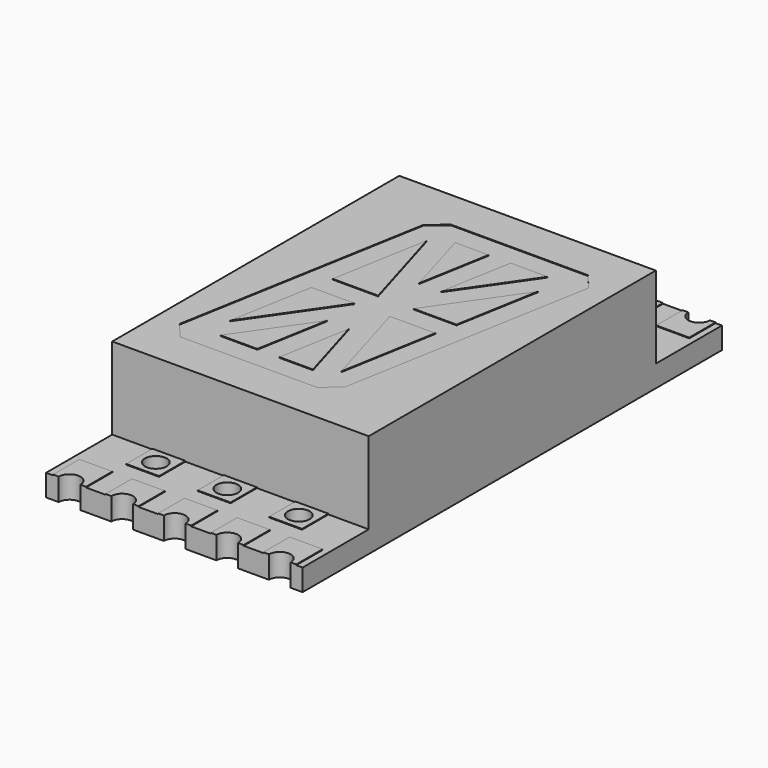
from build123d import *

# Parameters (mm, degrees)
F0_W     = 9.2964
F0_H     = 18.9992
F1_DEPTH = 0.7874
F2_W     = 9.2964
F2_H     = 13.0048
F3_DEPTH = 2.9718
F4_R     = 0.3937
F5_DEPTH = 25.4
F4_W     = 1.1938
F4_H     = 1.1938
F6_DEPTH = 0.0254
F8_DEPTH = 0.0254


with BuildPart() as f1:
    # F0 (on Top) → F1 (new body)
    with BuildSketch(Plane.XY):
        Rectangle(F0_W, F0_H)
    extrude(amount=F1_DEPTH)

    # F2 (on face) → F3 (join)
    with BuildSketch(Plane.XY.offset(0.7874)):
        Rectangle(F2_W, F2_H)
    extrude(amount=F3_DEPTH)

    # F4 (on face) → F5 (cut)
    with BuildSketch(Plane.XY.offset(0.7874)):
        with BuildLine():
            ThreePointArc((-3.4036, -9.4996), (-3.7973, -9.1059), (-4.191, -9.4996))
            Line((-4.191, -9.4996), (-3.4036, -9.4996))
        make_face()
        with BuildLine():
            ThreePointArc((-1.4986, -9.4996), (-1.8923, -9.1059), (-2.286, -9.4996))
            Line((-2.286, -9.4996), (-1.4986, -9.4996))
        make_face()
        with BuildLine():
            ThreePointArc((0.4064, -9.4996), (0.0127, -9.1059), (-0.381, -9.4996))
            Line((-0.381, -9.4996), (0.4064, -9.4996))
        make_face()
        with BuildLine():
            ThreePointArc((2.3114, -9.4996), (1.9177, -9.1059), (1.524, -9.4996))
            Line((1.524, -9.4996), (2.3114, -9.4996))
        make_face()
        with BuildLine():
            Line((3.429, -9.4996), (4.2164, -9.4996))
            ThreePointArc((4.2164, -9.4996), (3.8227, -9.1059), (3.429, -9.4996))
        make_face()
        with Locations((2.5908, -7.0993)):
            Circle(F4_R)
        with Locations((0, -7.0993)):
            Circle(F4_R)
        with Locations((-2.5908, -7.0993)):
            Circle(F4_R)
        with BuildLine():
            ThreePointArc((-2.3124120602, 7.3776879398), (-2.8691879398, 7.3776879398), (-2.8691879398, 6.8209120602))
            Line((-2.8691879398, 6.8209120602), (-2.3124120602, 7.3776879398))
        make_face()
        with BuildLine():
            Line((-2.3124120602, 7.3776879398), (-2.8691879398, 6.8209120602))
            ThreePointArc((-2.8691879398, 6.8209120602), (-2.4401375327, 6.7355686281), (-2.1971, 7.0993))
            ThreePointArc((-2.1971, 7.0993), (-2.2270686281, 7.2499624673), (-2.3124120602, 7.3776879398))
        make_face()
        with BuildLine():
            ThreePointArc((0.2783879398, 7.3776879398), (-0.2783879398, 7.3776879398), (-0.2783879398, 6.8209120602))
            Line((-0.2783879398, 6.8209120602), (0.2783879398, 7.3776879398))
        make_face()
        with BuildLine():
            Line((0.2783879398, 7.3776879398), (-0.2783879398, 6.8209120602))
            ThreePointArc((-0.2783879398, 6.8209120602), (0.1506624673, 6.7355686281), (0.3937, 7.0993))
            ThreePointArc((0.3937, 7.0993), (0.3637313719, 7.2499624673), (0.2783879398, 7.3776879398))
        make_face()
        with BuildLine():
            ThreePointArc((2.8691879398, 7.3776879398), (2.3124120602, 7.3776879398), (2.3124120602, 6.8209120602))
            Line((2.3124120602, 6.8209120602), (2.8691879398, 7.3776879398))
        make_face()
        with BuildLine():
            Line((2.8691879398, 7.3776879398), (2.3124120602, 6.8209120602))
            ThreePointArc((2.3124120602, 6.8209120602), (2.7414624673, 6.7355686281), (2.9845, 7.0993))
            ThreePointArc((2.9845, 7.0993), (2.9545313719, 7.2499624673), (2.8691879398, 7.3776879398))
        make_face()
        with BuildLine():
            ThreePointArc((-4.191, 9.4996), (-3.7973, 9.1059), (-3.4036, 9.4996))
            Line((-3.4036, 9.4996), (-4.191, 9.4996))
        make_face()
        with BuildLine():
            ThreePointArc((-2.286, 9.4996), (-1.8923, 9.1059), (-1.4986, 9.4996))
            Line((-1.4986, 9.4996), (-2.286, 9.4996))
        make_face()
        with BuildLine():
            Line((0.4064, 9.4996), (-0.381, 9.4996))
            ThreePointArc((-0.381, 9.4996), (0.0127, 9.1059), (0.4064, 9.4996))
        make_face()
        with BuildLine():
            Line((2.3114, 9.4996), (1.524, 9.4996))
            ThreePointArc((1.524, 9.4996), (1.9177, 9.1059), (2.3114, 9.4996))
        make_face()
        with BuildLine():
            Line((4.2164, 9.4996), (3.429, 9.4996))
            ThreePointArc((3.429, 9.4996), (3.8227, 9.1059), (4.2164, 9.4996))
        make_face()
    extrude(amount=-F5_DEPTH, mode=Mode.SUBTRACT)

    # F4 (on face) → F6 (join)
    with BuildSketch(Plane.XY.offset(0.7874)):
        with BuildLine():
            Line((-4.3942, 8.3058), (-3.2004, 8.3058))
            Line((-3.2004, 8.3058), (-3.2004, 9.4996))
            Line((-3.2004, 9.4996), (-3.4036, 9.4996))
            ThreePointArc((-3.4036, 9.4996), (-3.7973, 9.1059), (-4.191, 9.4996))
            Line((-4.191, 9.4996), (-4.3942, 9.4996))
            Line((-4.3942, 9.4996), (-4.3942, 8.3058))
        make_face()
        with BuildLine():
            Line((-1.2954, 9.4996), (-1.4986, 9.4996))
            ThreePointArc((-1.4986, 9.4996), (-1.8923, 9.1059), (-2.286, 9.4996))
            Line((-2.286, 9.4996), (-2.4892, 9.4996))
            Line((-2.4892, 9.4996), (-2.4892, 8.3058))
            Line((-2.4892, 8.3058), (-1.2954, 8.3058))
            Line((-1.2954, 8.3058), (-1.2954, 9.4996))
        make_face()
        with BuildLine():
            Line((-0.381, 9.4996), (-0.5842, 9.4996))
            Line((-0.5842, 9.4996), (-0.5842, 8.3058))
            Line((-0.5842, 8.3058), (0.6096, 8.3058))
            Line((0.6096, 8.3058), (0.6096, 9.4996))
            Line((0.6096, 9.4996), (0.4064, 9.4996))
            ThreePointArc((0.4064, 9.4996), (0.0127, 9.1059), (-0.381, 9.4996))
        make_face()
        with BuildLine():
            Line((1.524, 9.4996), (1.3208, 9.4996))
            Line((1.3208, 9.4996), (1.3208, 8.3058))
            Line((1.3208, 8.3058), (2.5146, 8.3058))
            Line((2.5146, 8.3058), (2.5146, 9.4996))
            Line((2.5146, 9.4996), (2.3114, 9.4996))
            ThreePointArc((2.3114, 9.4996), (1.9177, 9.1059), (1.524, 9.4996))
        make_face()
        with BuildLine():
            Line((3.429, 9.4996), (3.2258, 9.4996))
            Line((3.2258, 9.4996), (3.2258, 8.3058))
            Line((3.2258, 8.3058), (4.4196, 8.3058))
            Line((4.4196, 8.3058), (4.4196, 9.4996))
            Line((4.4196, 9.4996), (4.2164, 9.4996))
            ThreePointArc((4.2164, 9.4996), (3.8227, 9.1059), (3.429, 9.4996))
        make_face()
        with BuildLine():
            Line((-2.4892, -8.3058), (-2.4892, -9.4996))
            Line((-2.4892, -9.4996), (-2.286, -9.4996))
            ThreePointArc((-2.286, -9.4996), (-1.8923, -9.1059), (-1.4986, -9.4996))
            Line((-1.4986, -9.4996), (-1.2954, -9.4996))
            Line((-1.2954, -9.4996), (-1.2954, -8.3058))
            Line((-1.2954, -8.3058), (-2.4892, -8.3058))
        make_face()
        with BuildLine():
            Line((-4.3942, -8.3058), (-4.3942, -9.4996))
            Line((-4.3942, -9.4996), (-4.191, -9.4996))
            ThreePointArc((-4.191, -9.4996), (-3.7973, -9.1059), (-3.4036, -9.4996))
            Line((-3.4036, -9.4996), (-3.2004, -9.4996))
            Line((-3.2004, -9.4996), (-3.2004, -8.3058))
            Line((-3.2004, -8.3058), (-4.3942, -8.3058))
        make_face()
        with BuildLine():
            Line((-0.5842, -8.3058), (-0.5842, -9.4996))
            Line((-0.5842, -9.4996), (-0.381, -9.4996))
            ThreePointArc((-0.381, -9.4996), (0.0127, -9.1059), (0.4064, -9.4996))
            Line((0.4064, -9.4996), (0.6096, -9.4996))
            Line((0.6096, -9.4996), (0.6096, -8.3058))
            Line((0.6096, -8.3058), (-0.5842, -8.3058))
        make_face()
        with BuildLine():
            Line((1.3208, -8.3058), (1.3208, -9.4996))
            Line((1.3208, -9.4996), (1.524, -9.4996))
            ThreePointArc((1.524, -9.4996), (1.9177, -9.1059), (2.3114, -9.4996))
            Line((2.3114, -9.4996), (2.5146, -9.4996))
            Line((2.5146, -9.4996), (2.5146, -8.3058))
            Line((2.5146, -8.3058), (1.3208, -8.3058))
        make_face()
        with BuildLine():
            Line((4.2164, -9.4996), (4.4196, -9.4996))
            Line((4.4196, -9.4996), (4.4196, -8.3058))
            Line((4.4196, -8.3058), (3.2258, -8.3058))
            Line((3.2258, -8.3058), (3.2258, -9.4996))
            Line((3.2258, -9.4996), (3.429, -9.4996))
            ThreePointArc((3.429, -9.4996), (3.8227, -9.1059), (4.2164, -9.4996))
        make_face()
        with Locations((2.5908, -7.0993)):
            Rectangle(F4_W, F4_H)
        with Locations((2.5908, -7.0993)):
            Circle(F4_R, mode=Mode.SUBTRACT)
        with Locations((0, -7.0993)):
            Rectangle(F4_W, F4_H)
        with Locations((0, -7.0993)):
            Circle(F4_R, mode=Mode.SUBTRACT)
        with Locations((-2.5908, -7.0993)):
            Rectangle(F4_W, F4_H)
        with Locations((-2.5908, -7.0993)):
            Circle(F4_R, mode=Mode.SUBTRACT)
        with BuildLine():
            Line((-2.8691879398, 6.8209120602), (-3.1877, 6.5024))
            Line((-3.1877, 6.5024), (-1.9939, 6.5024))
            Line((-1.9939, 6.5024), (-1.9939, 7.6962))
            Line((-1.9939, 7.6962), (-2.3124120602, 7.3776879398))
            ThreePointArc((-2.3124120602, 7.3776879398), (-2.2270686281, 7.2499624673), (-2.1971, 7.0993))
            ThreePointArc((-2.1971, 7.0993), (-2.4401375327, 6.7355686281), (-2.8691879398, 6.8209120602))
        make_face()
        with BuildLine():
            Line((0.5969, 7.6962), (-0.5969, 7.6962))
            Line((-0.5969, 7.6962), (-0.5969, 6.5024))
            Line((-0.5969, 6.5024), (-0.2783879398, 6.8209120602))
            ThreePointArc((-0.2783879398, 6.8209120602), (-0.2783879398, 7.3776879398), (0.2783879398, 7.3776879398))
            Line((0.2783879398, 7.3776879398), (0.5969, 7.6962))
        make_face()
        with BuildLine():
            Line((-0.2783879398, 6.8209120602), (-0.5969, 6.5024))
            Line((-0.5969, 6.5024), (0.5969, 6.5024))
            Line((0.5969, 6.5024), (0.5969, 7.6962))
            Line((0.5969, 7.6962), (0.2783879398, 7.3776879398))
            ThreePointArc((0.2783879398, 7.3776879398), (0.3637313719, 7.2499624673), (0.3937, 7.0993))
            ThreePointArc((0.3937, 7.0993), (0.1506624673, 6.7355686281), (-0.2783879398, 6.8209120602))
        make_face()
        with BuildLine():
            Line((2.3124120602, 6.8209120602), (1.9939, 6.5024))
            Line((1.9939, 6.5024), (3.1877, 6.5024))
            Line((3.1877, 6.5024), (3.1877, 7.6962))
            Line((3.1877, 7.6962), (2.8691879398, 7.3776879398))
            ThreePointArc((2.8691879398, 7.3776879398), (2.9545313719, 7.2499624673), (2.9845, 7.0993))
            ThreePointArc((2.9845, 7.0993), (2.7414624673, 6.7355686281), (2.3124120602, 6.8209120602))
        make_face()
        with BuildLine():
            Line((-3.1877, 7.6962), (-3.1877, 6.5024))
            Line((-3.1877, 6.5024), (-2.8691879398, 6.8209120602))
            ThreePointArc((-2.8691879398, 6.8209120602), (-2.8691879398, 7.3776879398), (-2.3124120602, 7.3776879398))
            Line((-2.3124120602, 7.3776879398), (-1.9939, 7.6962))
            Line((-1.9939, 7.6962), (-3.1877, 7.6962))
        make_face()
        with BuildLine():
            Line((1.9939, 7.6962), (1.9939, 6.5024))
            Line((1.9939, 6.5024), (2.3124120602, 6.8209120602))
            ThreePointArc((2.3124120602, 6.8209120602), (2.3124120602, 7.3776879398), (2.8691879398, 7.3776879398))
            Line((2.8691879398, 7.3776879398), (3.1877, 7.6962))
            Line((3.1877, 7.6962), (1.9939, 7.6962))
        make_face()
    extrude(amount=F6_DEPTH)

    # F7 (on face) → F8 (cut)
    with BuildSketch(Plane.XY.offset(3.7592)):
        Polygon((-1.6337567293, 5.08), (-2.2369401238, 4.5738690361), (-3.8328201964, -4.4768166055), (-3.3266892325, -5.08), (1.6337567293, -5.08), (2.2369401238, -4.5738690361), (3.8328201964, 4.4768166055), (3.3266892325, 5.08), align=None)
        Polygon((-0.6995260408, -1.6999813781), (-1.1566746545, -4.2926), (-2.496976666, -4.2926), align=None, mode=Mode.SUBTRACT)
        Polygon((-0.7520136768, -0.3937), (-2.8458346333, -3.4137992041), (-2.3133096593, -0.3937), align=None, mode=Mode.SUBTRACT)
        Polygon((0.097116606, -1.716452297), (0.8590653228, -4.2926), (-0.3571277403, -4.2926), align=None, mode=Mode.SUBTRACT)
        Polygon((2.1744697946, -0.3937), (1.5591465579, -3.8833714858), (0.5270043762, -0.3937), align=None, mode=Mode.SUBTRACT)
        Polygon((-2.1744697946, 0.3937), (-1.5591465579, 3.8833714858), (-0.5270043762, 0.3937), align=None, mode=Mode.SUBTRACT)
        Polygon((-0.8590653228, 4.2926), (0.3571277403, 4.2926), (-0.097116606, 1.716452297), align=None, mode=Mode.SUBTRACT)
        Polygon((2.8458346333, 3.4137992041), (2.3133096593, 0.3937), (0.7520136768, 0.3937), align=None, mode=Mode.SUBTRACT)
        Polygon((1.1566746545, 4.2926), (2.496976666, 4.2926), (0.6995260408, 1.6999813781), align=None, mode=Mode.SUBTRACT)
    extrude(amount=-F8_DEPTH, mode=Mode.SUBTRACT)


solid = f1.part
